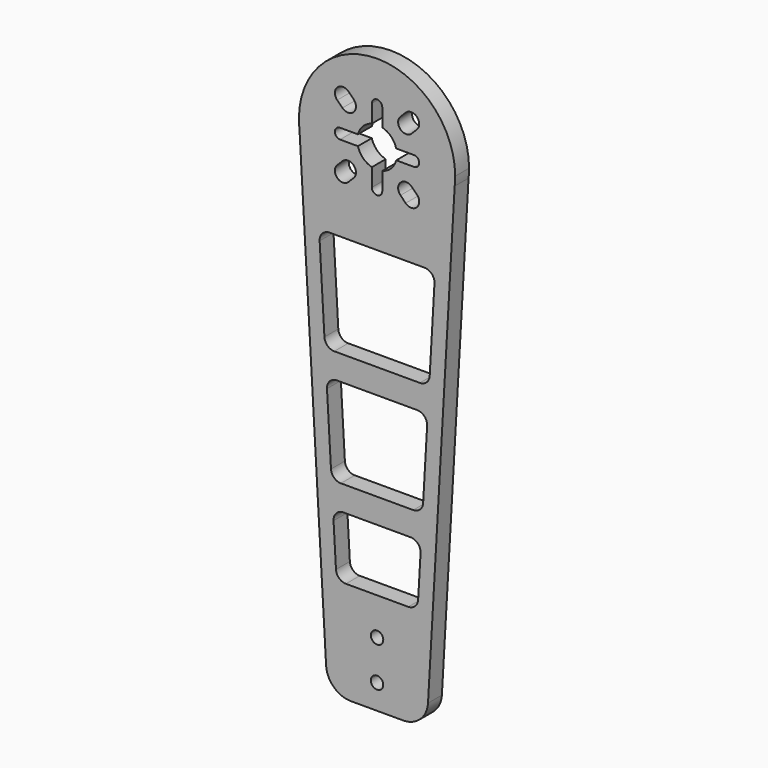
from build123d import *

# Parameters (mm, degrees)
F0_R     = 1.25
F1_DEPTH = 3.5
F2_R     = 5
F3_R     = 2


with BuildPart() as f1:
    # F0 (on Front) → F1 (new body)
    with BuildSketch(Plane.XZ):
        with BuildLine():
            Line((15.646196, -1.805281), (15.75, 0))
            ThreePointArc((15.75, 0), (0, 15.75), (-15.75, 0))
            Line((-15.75, 0), (-15.646196, -1.805281))
            ThreePointArc((-15.646196, -1.805281), (0, -15.75), (15.646196, -1.805281))
        make_face()
        with BuildLine():
            ThreePointArc((-5.768629, -8.031371), (-8.031371, -8.031371), (-8.031371, -5.768629))
            Line((-8.031371, -5.768629), (-6.982024, -4.719283))
            ThreePointArc((-6.982024, -4.719283), (-4.719283, -4.719283), (-4.719283, -6.982024))
            Line((-4.719283, -6.982024), (-5.768629, -8.031371))
        make_face(mode=Mode.SUBTRACT)
        with BuildLine():
            ThreePointArc((-8.031371, 5.768629), (-8.031371, 8.031371), (-5.768629, 8.031371))
            Line((-5.768629, 8.031371), (-4.719283, 6.982024))
            ThreePointArc((-4.719283, 6.982024), (-4.719283, 4.719283), (-6.982024, 4.719283))
            Line((-6.982024, 4.719283), (-8.031371, 5.768629))
        make_face(mode=Mode.SUBTRACT)
        with BuildLine():
            Line((3.859728, 1.05), (7.45, 1.05))
            ThreePointArc((7.45, 1.05), (8.5, 0), (7.45, -1.05))
            Line((7.45, -1.05), (3.859728, -1.05))
            ThreePointArc((3.859728, -1.05), (2.828427, -2.828427), (1.05, -3.859728))
            Line((1.05, -3.859728), (1.05, -7.45))
            ThreePointArc((1.05, -7.45), (0, -8.5), (-1.05, -7.45))
            Line((-1.05, -7.45), (-1.05, -3.859728))
            ThreePointArc((-1.05, -3.859728), (-2.828427, -2.828427), (-3.859728, -1.05))
            Line((-3.859728, -1.05), (-7.45, -1.05))
            ThreePointArc((-7.45, -1.05), (-8.5, 0), (-7.45, 1.05))
            Line((-7.45, 1.05), (-3.859728, 1.05))
            ThreePointArc((-3.859728, 1.05), (-2.828427, 2.828427), (-1.05, 3.859728))
            Line((-1.05, 3.859728), (-1.05, 7.45))
            ThreePointArc((-1.05, 7.45), (0, 8.5), (1.05, 7.45))
            Line((1.05, 7.45), (1.05, 3.859728))
            ThreePointArc((1.05, 3.859728), (2.828427, 2.828427), (3.859728, 1.05))
        make_face(mode=Mode.SUBTRACT)
        with BuildLine():
            ThreePointArc((8.031371, -5.768629), (8.031371, -8.031371), (5.768629, -8.031371))
            Line((5.768629, -8.031371), (4.719283, -6.982024))
            ThreePointArc((4.719283, -6.982024), (4.719283, -4.719283), (6.982024, -4.719283))
            Line((6.982024, -4.719283), (8.031371, -5.768629))
        make_face(mode=Mode.SUBTRACT)
        with BuildLine():
            ThreePointArc((6.982024, 4.719283), (4.719283, 4.719283), (4.719283, 6.982024))
            Line((4.719283, 6.982024), (5.768629, 8.031371))
            ThreePointArc((5.768629, 8.031371), (8.031371, 8.031371), (8.031371, 5.768629))
            Line((8.031371, 5.768629), (6.982024, 4.719283))
        make_face(mode=Mode.SUBTRACT)
        with BuildLine():
            ThreePointArc((15.646196, -1.805281), (15.724028, -0.904132), (15.75, 0))
            Line((15.75, 0), (15.646196, -1.805281))
        make_face()
        with BuildLine():
            Line((-15.646196, -1.805281), (-15.75, 0))
            ThreePointArc((-15.75, 0), (-15.724028, -0.904132), (-15.646196, -1.805281))
        make_face()
        with BuildLine():
            Line((10, -100), (15.646196, -1.805281))
            ThreePointArc((15.646196, -1.805281), (0, -15.75), (-15.646196, -1.805281))
            Line((-15.646196, -1.805281), (-10, -100))
            Line((-10, -100), (0, -100))
            Line((0, -100), (10, -100))
        make_face()
        with Locations((0, -95)):
            Circle(F0_R, mode=Mode.SUBTRACT)
        with Locations((0, -87)):
            Circle(F0_R, mode=Mode.SUBTRACT)
        Polygon((-8.892545, -67), (0, -67), (8.892545, -67), (8.173795, -79.5), (0, -79.5), (-8.173795, -79.5), align=None, mode=Mode.SUBTRACT)
        Polygon((-10.215045, -44), (0, -44), (10.215045, -44), (9.180045, -62), (0, -62), (-9.180045, -62), align=None, mode=Mode.SUBTRACT)
        Polygon((-11.69567, -18.25), (0, -18.25), (11.69567, -18.25), (10.502545, -39), (0, -39), (-10.502545, -39), align=None, mode=Mode.SUBTRACT)
    extrude(amount=F1_DEPTH)

    # F2
    f2_edges = [f1.edges().sort_by_distance(p)[0] for p in [
        (-10, -1.75, -100),
        (10, -1.75, -100),
    ]]
    fillet(f2_edges, radius=F2_R)

    # F3
    f3_edges = [f1.edges().sort_by_distance(p)[0] for p in [
        (-10.502545, -1.75, -39),
        (-9.180045, -1.75, -62),
        (-8.173795, -1.75, -79.5),
        (-8.892545, -1.75, -67),
        (-10.215045, -1.75, -44),
        (-11.69567, -1.75, -18.25),
        (11.69567, -1.75, -18.25),
        (10.215045, -1.75, -44),
        (8.892545, -1.75, -67),
        (10.502545, -1.75, -39),
        (9.180045, -1.75, -62),
        (8.173795, -1.75, -79.5),
    ]]
    fillet(f3_edges, radius=F3_R)


solid = f1.part
